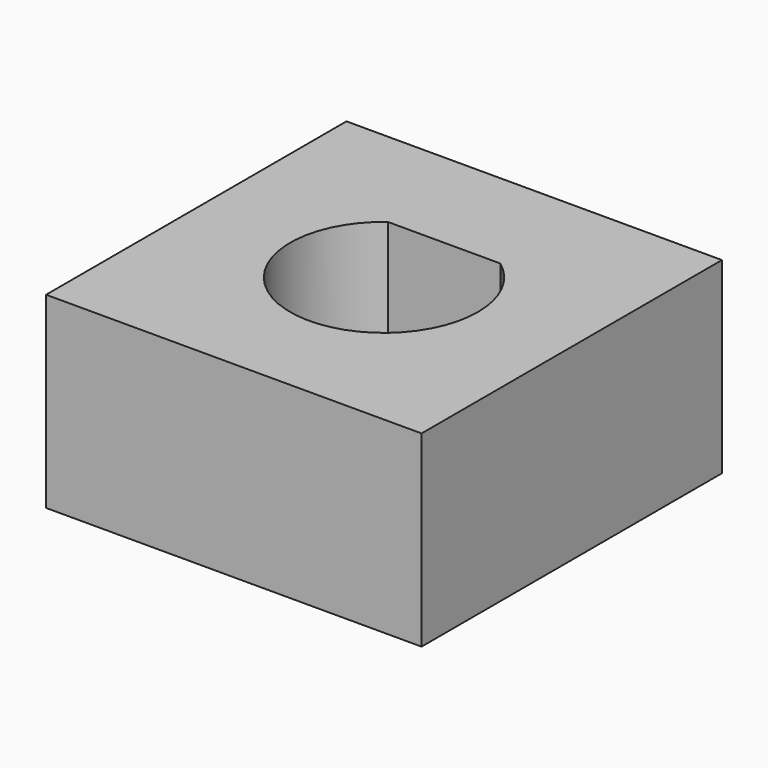
from build123d import *

# Parameters (mm, degrees)
F0_W     = 10
F0_H     = 10
F1_DEPTH = 5


with BuildPart() as f1:
    # F0 (on Top) → F1 (new body)
    with BuildSketch(Plane.XY):
        Rectangle(F0_W, F0_H)
        with BuildLine():
            ThreePointArc((1.5, 2), (2.236068, 1.118034), (2.5, 0))
            ThreePointArc((2.5, 0), (-1.118034, -2.236068), (-1.5, 2))
            Line((-1.5, 2), (-3.376261, 2))
            Line((-3.376261, 2), (-3.376261, 4.884955))
            Line((-3.376261, 4.884955), (3.420027, 4.884955))
            Line((3.420027, 4.884955), (3.420027, 2))
            Line((3.420027, 2), (1.5, 2))
        make_face(mode=Mode.SUBTRACT)
        with BuildLine():
            ThreePointArc((-1.5, 2), (0, 2.5), (1.5, 2))
            Line((1.5, 2), (3.420027, 2))
            Line((3.420027, 2), (3.420027, 4.884955))
            Line((3.420027, 4.884955), (-3.376261, 4.884955))
            Line((-3.376261, 4.884955), (-3.376261, 2))
            Line((-3.376261, 2), (-1.5, 2))
        make_face()
        with BuildLine():
            Line((-1.5, 2), (1.5, 2))
            ThreePointArc((1.5, 2), (0, 2.5), (-1.5, 2))
        make_face()
    extrude(amount=F1_DEPTH)


solid = f1.part
